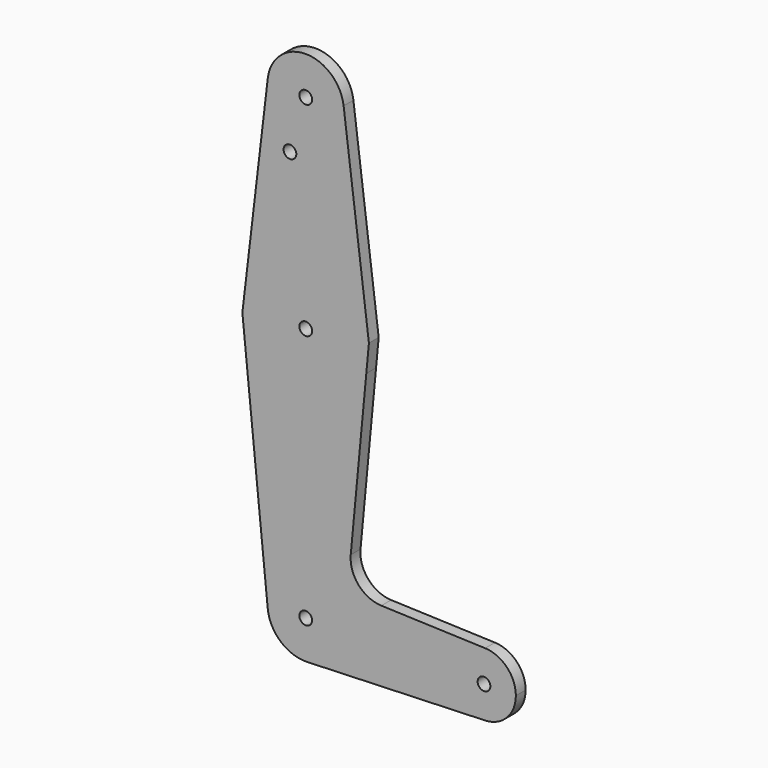
from build123d import *

# Parameters (mm, degrees)
F0_R     = 1.5875
F1_DEPTH = 3.048


with BuildPart() as f1:
    # F0 (on Front) → F1 (new body)
    with BuildSketch(Plane.XZ):
        with BuildLine():
            ThreePointArc((9.525, 0), (-0.476848, 9.513056), (-9.477255, -0.9525))
            ThreePointArc((-9.477255, -0.9525), (-6.262383, -7.17692), (0.340179, -9.518923))
            ThreePointArc((0.340179, -9.518923), (6.854408, -6.613827), (9.525, 0))
        make_face()
        Circle(F0_R, mode=Mode.SUBTRACT)
        with BuildLine():
            ThreePointArc((9.450293, 115.490625), (9.506305, 114.896483), (9.525, 114.3))
            ThreePointArc((9.525, 114.3), (-0.561049, 104.791538), (-9.458905, 115.420149))
            Line((-9.458905, 115.420149), (-14.987732, 68.732925))
            ThreePointArc((-14.987732, 68.732925), (1.668448, 79.28708), (15.750488, 65.484375))
            Line((15.750488, 65.484375), (9.450293, 115.490625))
        make_face()
        with Locations((-3.934539, 101.059593)):
            Circle(F0_R, mode=Mode.SUBTRACT)
        with BuildLine():
            Line((15.100703, 58.602614), (15.750488, 65.484375))
            ThreePointArc((15.750488, 65.484375), (1.668448, 79.28708), (-14.987732, 68.732925))
            Line((-14.987732, 68.732925), (-15.795426, 61.9125))
            ThreePointArc((-15.795426, 61.9125), (-1.691005, 47.71532), (15.100703, 58.602614))
        make_face()
        with Locations((0, 63.5)):
            Circle(F0_R, mode=Mode.SUBTRACT)
        with BuildLine():
            Line((11.224433, 17.549713), (15.100703, 58.602614))
            ThreePointArc((15.100703, 58.602614), (-1.691005, 47.71532), (-15.795426, 61.9125))
            Line((-15.795426, 61.9125), (-9.477255, -0.9525))
            ThreePointArc((-9.477255, -0.9525), (-0.476848, 9.513056), (9.525, 0))
            ThreePointArc((9.525, 0), (6.854408, -6.613827), (0.340179, -9.518923))
            Line((0.340179, -9.518923), (44.733482, -7.932436))
            ThreePointArc((44.733482, -7.932436), (36.5125, 0), (44.733482, 7.932436))
            Line((44.733482, 7.932436), (18.855493, 8.85724))
            ThreePointArc((18.855493, 8.85724), (13.164867, 11.557343), (11.224433, 17.549713))
        make_face()
        with BuildLine():
            ThreePointArc((52.3875, 0), (50.162007, 5.511523), (44.733482, 7.932436))
            ThreePointArc((44.733482, 7.932436), (36.5125, 0), (44.733482, -7.932436))
            ThreePointArc((44.733482, -7.932436), (50.162007, -5.511523), (52.3875, 0))
        make_face()
        with Locations((44.45, 0)):
            Circle(F0_R, mode=Mode.SUBTRACT)
        with BuildLine():
            ThreePointArc((-9.458905, 115.420149), (-0.561049, 104.791538), (9.525, 114.3))
            ThreePointArc((9.525, 114.3), (9.506305, 114.896483), (9.450293, 115.490625))
            ThreePointArc((9.450293, 115.490625), (-0.0355, 123.824934), (-9.458905, 115.420149))
        make_face()
        with Locations((0, 114.3)):
            Circle(F0_R, mode=Mode.SUBTRACT)
    extrude(amount=F1_DEPTH)


solid = f1.part
